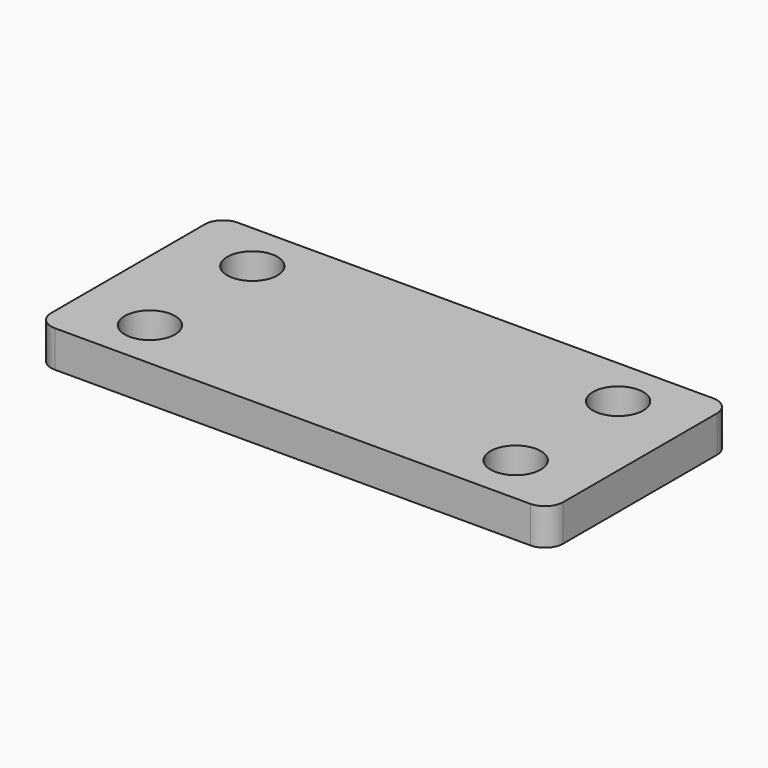
from build123d import *

# Parameters (mm, degrees)
SKETCH_R  = 2.75
PAD_DEPTH = 4


with BuildPart() as part:
    # Sketch → Pad (new body)
    with BuildSketch(Plane.XY):
        with BuildLine():
            Line((-6, 12.5), (46, 12.5))
            ThreePointArc((48, 10.5), (47.414214, 11.914214), (46, 12.5))
            Line((48, 10.5), (48, -10.5))
            ThreePointArc((46, -12.5), (47.414214, -11.914214), (48, -10.5))
            Line((46, -12.5), (-6, -12.5))
            ThreePointArc((-8, -10.5), (-7.414214, -11.914214), (-6, -12.5))
            Line((-8, -10.5), (-8, 10.5))
            ThreePointArc((-6, 12.5), (-7.414214, 11.914214), (-8, 10.5))
        make_face()
        with Locations((0, 7)):
            Circle(SKETCH_R, mode=Mode.SUBTRACT)
        with Locations((0, -7)):
            Circle(SKETCH_R, mode=Mode.SUBTRACT)
        with Locations((40, 7)):
            Circle(SKETCH_R, mode=Mode.SUBTRACT)
        with Locations((40, -7)):
            Circle(SKETCH_R, mode=Mode.SUBTRACT)
    extrude(amount=PAD_DEPTH)


solid = part.part
